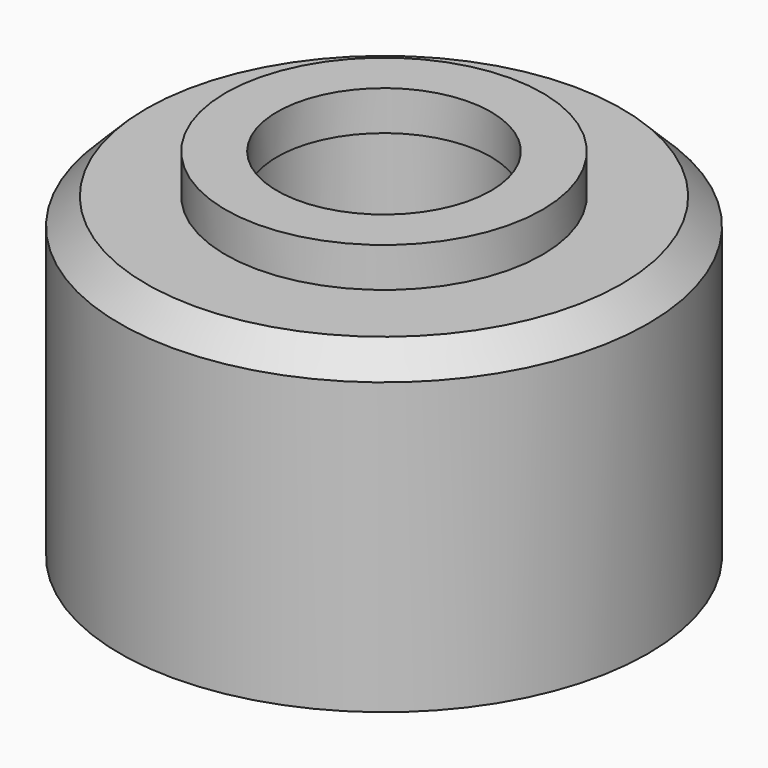
from build123d import *

# Parameters (mm, degrees)
F0_R     = 10
F0_R_2   = 4.1
F1_DEPTH = 12
F2_R     = 1.6
F3_DEPTH = 25
F4_R     = 1.6
F5_DEPTH = 25
F6_R     = 6
F6_R_2   = 4.05
F7_DEPTH = 1.5
F8_SIZE  = 1


with BuildPart() as f1:
    # F0 (on Top) → F1 (new body)
    with BuildSketch(Plane.XY):
        Circle(F0_R)
        Circle(F0_R_2, mode=Mode.SUBTRACT)
    extrude(amount=F1_DEPTH)

    # F2 (on Front) → F3 (cut)
    with BuildSketch(Plane.XZ):
        with Locations((0, 6)):
            Circle(F2_R)
    extrude(amount=-F3_DEPTH, mode=Mode.SUBTRACT)

    # F4 (on Right) → F5 (cut)
    with BuildSketch(Plane.YZ):
        with Locations((0, 6)):
            Circle(F4_R)
    extrude(amount=-F5_DEPTH, mode=Mode.SUBTRACT)

    # F6 (on face) → F7 (join)
    with BuildSketch(Plane.XY.offset(12)):
        Circle(F6_R)
        Circle(F6_R_2, mode=Mode.SUBTRACT)
    extrude(amount=F7_DEPTH)

    # F8
    f8_edges = [f1.edges().sort_by_distance(p)[0] for p in [
        (-10, 0, 12),
    ]]
    chamfer(f8_edges, length=F8_SIZE)


solid = f1.part
